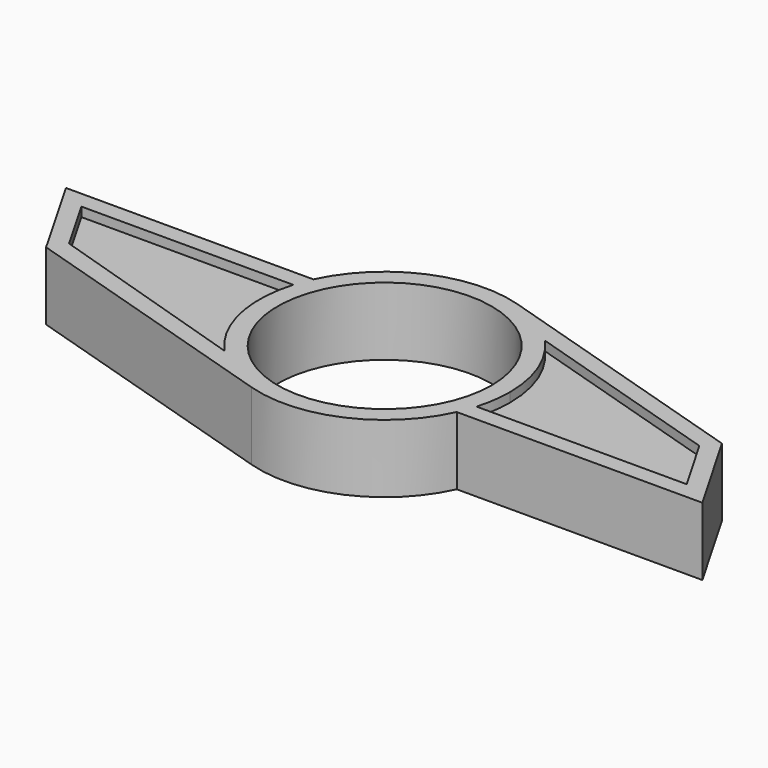
from build123d import *

# Parameters (mm, degrees)
F1_DEPTH = 2.54
F0_R     = 10.9855
F2_DEPTH = 3.4925


with BuildPart() as f1:
    # F0 (on Top) → F1 (new body, symmetric)
    with BuildSketch(Plane.XY):
        with BuildLine():
            ThreePointArc((-9.481127, -8.703157), (-12.542792, -2.883586), (-12.33003, 3.688775))
            Line((-12.33003, 3.688775), (-34.081371, 3.688775))
            Line((-34.081371, 3.688775), (-30.850178, -1.941802))
            Line((-30.850178, -1.941802), (-9.481127, -8.703157))
        make_face()
        with BuildLine():
            ThreePointArc((9.44992, 8.737032), (11.984513, 4.691285), (12.869992, 0))
            ThreePointArc((12.869992, 0), (12.737942, -1.838894), (12.344502, -3.640052))
            Line((12.344502, -3.640052), (33.918511, -3.640052))
            Line((33.918511, -3.640052), (30.54745, 2.198797))
            Line((30.54745, 2.198797), (9.44992, 8.737032))
        make_face()
    extrude(amount=F1_DEPTH, both=True)


with BuildPart() as f2:
    # F0 (on Top) → F2 (new body, symmetric)
    with BuildSketch(Plane.XY):
        with BuildLine():
            ThreePointArc((12.344502, -3.640052), (12.737942, -1.838894), (12.869992, 0))
            ThreePointArc((12.869992, 0), (11.984513, 4.691285), (9.44992, 8.737032))
            ThreePointArc((9.44992, 8.737032), (6.864119, 10.886716), (3.809726, 12.293197))
            ThreePointArc((3.809726, 12.293197), (-5.212271, 11.767282), (-11.664174, 5.439094))
            ThreePointArc((-11.664174, 5.439094), (-12.02898, 4.576061), (-12.33003, 3.688775))
            ThreePointArc((-12.33003, 3.688775), (-12.542792, -2.883586), (-9.481127, -8.703157))
            ThreePointArc((-9.481127, -8.703157), (-6.883588, -10.874416), (-3.809726, -12.293197))
            ThreePointArc((-3.809726, -12.293197), (5.248434, -11.751198), (11.697406, -5.367252))
            ThreePointArc((11.697406, -5.367252), (12.051935, -4.515259), (12.344502, -3.640052))
        make_face()
        Circle(F0_R, mode=Mode.SUBTRACT)
        with BuildLine():
            ThreePointArc((3.809726, 12.293197), (6.864119, 10.886716), (9.44992, 8.737032))
            Line((9.44992, 8.737032), (30.54745, 2.198797))
            Line((30.54745, 2.198797), (33.918511, -3.640052))
            Line((33.918511, -3.640052), (12.344502, -3.640052))
            ThreePointArc((12.344502, -3.640052), (12.051935, -4.515259), (11.697406, -5.367252))
            Line((11.697406, -5.367252), (36.910109, -5.367252))
            Line((36.910109, -5.367252), (31.704968, 3.648316))
            Line((31.704968, 3.648316), (3.809726, 12.293197))
        make_face()
        with BuildLine():
            ThreePointArc((-12.33003, 3.688775), (-12.02898, 4.576061), (-11.664174, 5.439094))
            Line((-11.664174, 5.439094), (-37.064174, 5.439094))
            Line((-37.064174, 5.439094), (-31.880429, -3.59394))
            Line((-31.880429, -3.59394), (-3.809726, -12.293197))
            ThreePointArc((-3.809726, -12.293197), (-6.883588, -10.874416), (-9.481127, -8.703157))
            Line((-9.481127, -8.703157), (-30.850178, -1.941802))
            Line((-30.850178, -1.941802), (-34.081371, 3.688775))
            Line((-34.081371, 3.688775), (-12.33003, 3.688775))
        make_face()
    extrude(amount=F2_DEPTH, both=True)


solid = Compound([f1.part, f2.part])
